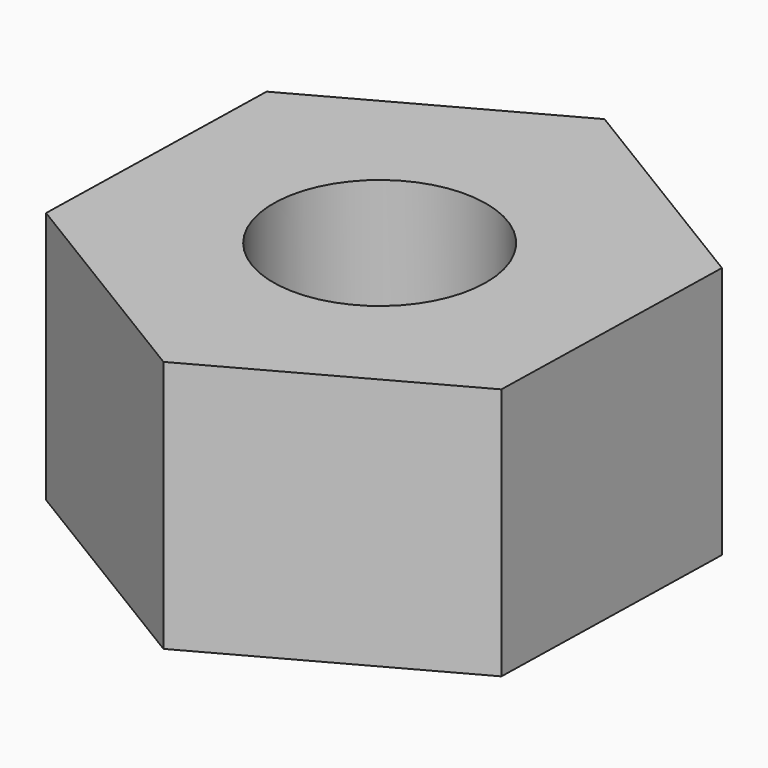
from build123d import *

# Parameters (mm, degrees)
F1_DEPTH = 46.736
F2_R     = 19.717824
F3_DEPTH = 46.736


with BuildPart() as f1:
    # F0 (on Top) → F1 (new body)
    with BuildSketch(Plane.XY):
        Polygon((42.331136, -24.77306), (43.485262, 24.77306), (1.154126, 50.545623), (-42.331136, 26.772066), (-43.485262, -22.774055), (-1.154126, -48.546618), align=None)
    extrude(amount=F1_DEPTH)

    # F2 (on face) → F3 (cut, through all)
    with BuildSketch(Plane.XY.offset(46.736)):
        Circle(F2_R)
    extrude(amount=-F3_DEPTH, mode=Mode.SUBTRACT)


solid = f1.part
